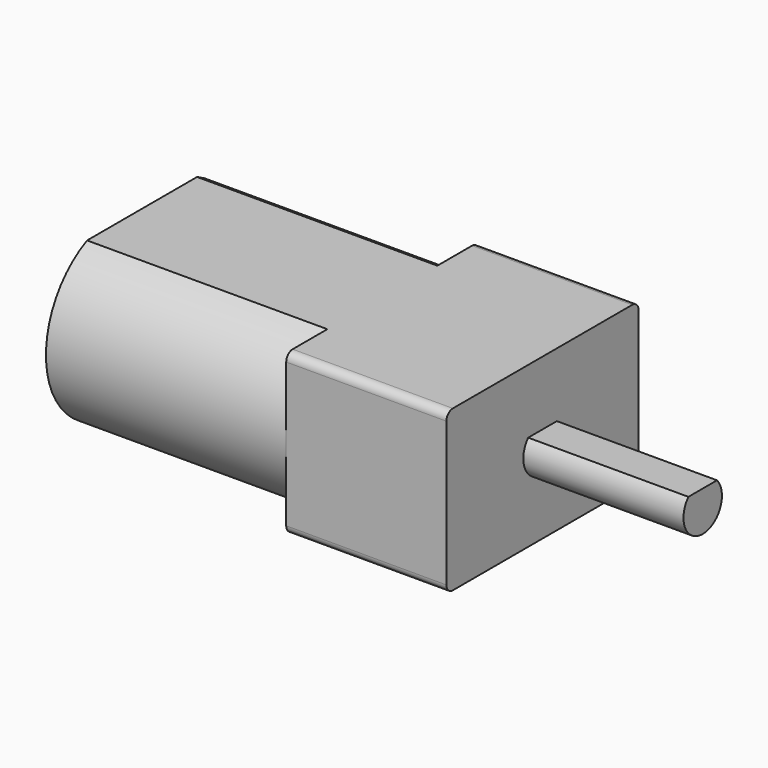
from build123d import *

# Parameters (mm, degrees)
F1_DEPTH = 15
F3_DEPTH = 10
F4_R     = 0.5
F6_DEPTH = 10


with BuildPart() as f1:
    # F0 (on Right) → F1 (new body)
    with BuildSketch(Plane.YZ):
        with BuildLine():
            Line((4.2912878475, 5), (-4.2912878475, 5))
            ThreePointArc((-4.2912878475, 5), (-7.5, 0), (-4.2912878475, -5))
            Line((-4.2912878475, -5), (4.2912878475, -5))
            ThreePointArc((4.2912878475, -5), (7.5, 0), (4.2912878475, 5))
        make_face()
    extrude(amount=F1_DEPTH)

    # F2 (on face) → F3 (join)
    with BuildSketch(Plane.YZ.offset(15)):
        with BuildLine():
            Line((-4.2912878475, 5), (-7.5, 5))
            Line((-7.5, 5), (-7.5, 0))
            ThreePointArc((-7.5, 0), (-6.628827236, 2.9705148408), (-4.2912878475, 5))
        make_face()
        with BuildLine():
            Line((7.5, 5), (4.2912878475, 5))
            ThreePointArc((4.2912878475, 5), (6.628827236, 2.9705148408), (7.5, 0))
            Line((7.5, 0), (7.5, 5))
        make_face()
        with BuildLine():
            Line((4.2912878475, 5), (-4.2912878475, 5))
            ThreePointArc((-4.2912878475, 5), (-6.628827236, 2.9705148408), (-7.5, 0))
            ThreePointArc((-7.5, 0), (-6.628827236, -2.9705148408), (-4.2912878475, -5))
            Line((-4.2912878475, -5), (4.2912878475, -5))
            ThreePointArc((4.2912878475, -5), (6.628827236, -2.9705148408), (7.5, 0))
            ThreePointArc((7.5, 0), (6.628827236, 2.9705148408), (4.2912878475, 5))
        make_face()
        with BuildLine():
            ThreePointArc((-4.2912878475, -5), (-6.628827236, -2.9705148408), (-7.5, 0))
            Line((-7.5, 0), (-7.5, -5))
            Line((-7.5, -5), (-4.2912878475, -5))
        make_face()
        with BuildLine():
            Line((7.5, -5), (7.5, 0))
            ThreePointArc((7.5, 0), (6.628827236, -2.9705148408), (4.2912878475, -5))
            Line((4.2912878475, -5), (7.5, -5))
        make_face()
    extrude(amount=F3_DEPTH)

    # F4
    f4_edges = [f1.edges().sort_by_distance(p)[0] for p in [
        (20, -7.5, 5),
        (20, 7.5, 5),
        (20, -7.5, -5),
        (20, 7.5, -5),
    ]]
    fillet(f4_edges, radius=F4_R)

    # F5 (on face) → F6 (join)
    with BuildSketch(Plane.YZ.offset(25)):
        with BuildLine():
            Line((1.1180339887, 1), (-1.1180339887, 1))
            ThreePointArc((-1.1180339887, 1), (0, -1.5), (1.1180339887, 1))
        make_face()
    extrude(amount=F6_DEPTH)


solid = f1.part
